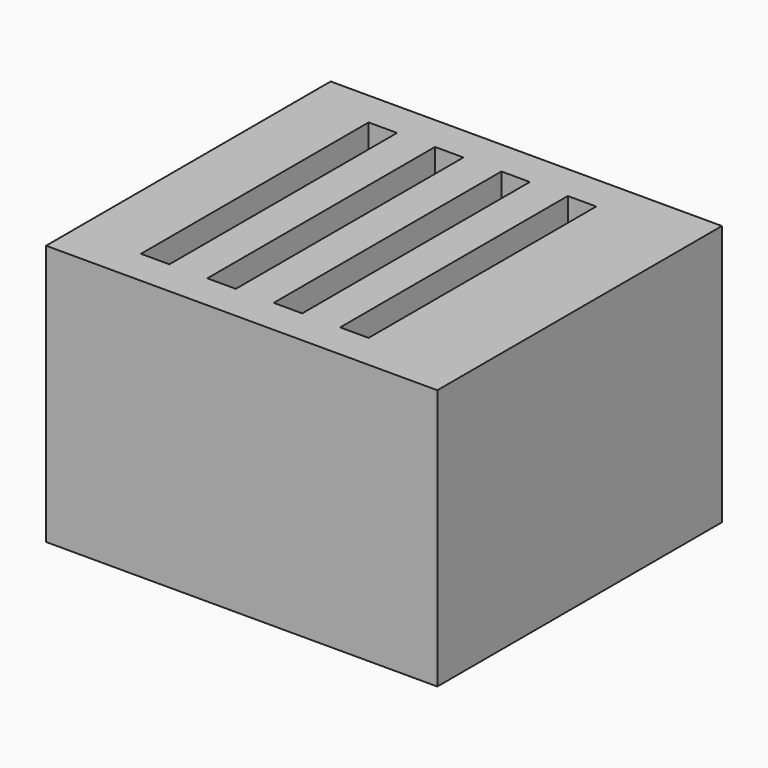
from build123d import *

# Parameters (mm, degrees)
BOX004_W     = 2.4
BOX004_H     = 24
BOX004_DEPTH = 15
BOX003_W     = 2.4
BOX003_H     = 24
BOX003_DEPTH = 15
BOX001_W     = 2.4
BOX001_H     = 24
BOX001_DEPTH = 15
BOX002_W     = 2.4
BOX002_H     = 24
BOX002_DEPTH = 15
BOX_W        = 33
BOX_H        = 30
BOX_DEPTH    = 22


with BuildPart() as ranura003:
    # Box004 → Box004 (new body)
    with BuildSketch(Plane(origin=(22.4, 3, 7), x_dir=(1, 0, 0), z_dir=(0, 0, 1))):
        with Locations((1.2, 12)):
            Rectangle(BOX004_W, BOX004_H)
    extrude(amount=BOX004_DEPTH)


with BuildPart() as fusion:
    # Box003 → Box003 (new body)
    with BuildSketch(Plane(origin=(16.8, 3, 7), x_dir=(1, 0, 0), z_dir=(0, 0, 1))):
        with Locations((1.2, 12)):
            Rectangle(BOX003_W, BOX003_H)
    extrude(amount=BOX003_DEPTH)

    # Fusion: union ranura003
    add(ranura003.part)


with BuildPart() as ranura:
    # Box001 → Box001 (new body)
    with BuildSketch(Plane(origin=(5.6, 3, 7), x_dir=(1, 0, 0), z_dir=(0, 0, 1))):
        with Locations((1.2, 12)):
            Rectangle(BOX001_W, BOX001_H)
    extrude(amount=BOX001_DEPTH)


with BuildPart() as fusion002:
    # Box002 → Box002 (new body)
    with BuildSketch(Plane(origin=(11.2, 3, 7), x_dir=(1, 0, 0), z_dir=(0, 0, 1))):
        with Locations((1.2, 12)):
            Rectangle(BOX002_W, BOX002_H)
    extrude(amount=BOX002_DEPTH)

    # Fusion001: union ranura
    add(ranura.part)

    # Fusion002: union Fusion
    add(fusion.part)


with BuildPart() as cut:
    # Box → Box (new body)
    with BuildSketch(Plane.XY):
        with Locations((16.5, 15)):
            Rectangle(BOX_W, BOX_H)
    extrude(amount=BOX_DEPTH)

    # Cut: cut Fusion002
    add(fusion002.part, mode=Mode.SUBTRACT)


solid = cut.part
